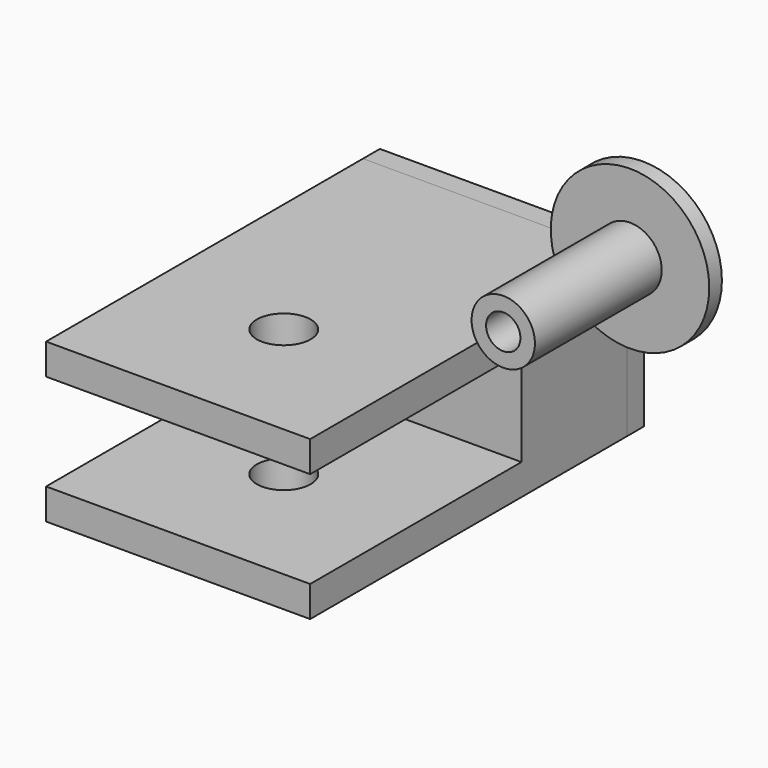
from build123d import *

# Parameters (mm, degrees)
F0_W      = 50
F0_H      = 75
F1_DEPTH  = 30
F2_W      = 50
F2_H      = 18.3
F3_DEPTH  = 50
F4_D      = 6.5
F6_D      = 10.2
F7_R      = 15
F7_R_2    = 6
F7_R_3    = 3.25
F8_DEPTH  = 3
F9_DEPTH  = 30
F10_DEPTH = 4


with BuildPart() as f1:
    # F0 (on Top) → F1 (new body)
    with BuildSketch(Plane.XY):
        Rectangle(F0_W, F0_H)
    extrude(amount=F1_DEPTH)

    # F2 (on face) → F3 (cut)
    with BuildSketch(Plane.XZ.offset(37.5)):
        with Locations((0, 15)):
            Rectangle(F2_W, F2_H)
    extrude(amount=-F3_DEPTH, mode=Mode.SUBTRACT)

    # F4 (through all)
    with Locations(Plane.XZ.offset(37.5)):
        with Locations((0, 15)):
            Hole(F4_D / 2)

    # F6 (through all)
    with Locations(Plane(origin=(0, 0, 0), x_dir=(1, 0, 0), z_dir=(0, 0, -1))):
        with Locations((0, 12.5)):
            Hole(F6_D / 2)


with BuildPart() as f8:
    # F7 (on Front) → F8 (new body)
    with BuildSketch(Plane.XZ):
        with Locations((55.5579289794, 54.782923311)):
            Circle(F7_R)
        with Locations((55.5579289794, 54.782923311)):
            Circle(F7_R_2, mode=Mode.SUBTRACT)
        with Locations((55.5579289794, 54.782923311)):
            Circle(F7_R_2)
        with Locations((55.5579289794, 54.782923311)):
            Circle(F7_R_3, mode=Mode.SUBTRACT)
    extrude(amount=-F8_DEPTH)

    # F7 (on Front) → F9 (join)
    with BuildSketch(Plane.XZ):
        with Locations((55.5579289794, 54.782923311)):
            Circle(F7_R_2)
        with Locations((55.5579289794, 54.782923311)):
            Circle(F7_R_3, mode=Mode.SUBTRACT)
    extrude(amount=F9_DEPTH)


with BuildPart() as f10:
    # F10 (new): a face of the model
    f10_faces = [f1.part.faces().sort_by_distance(p)[0] for p in [
        (24.4169048105, 37.5, 15),
    ]]
    extrude(f10_faces, amount=F10_DEPTH)


solid = Compound([f1.part, f8.part, f10.part])
